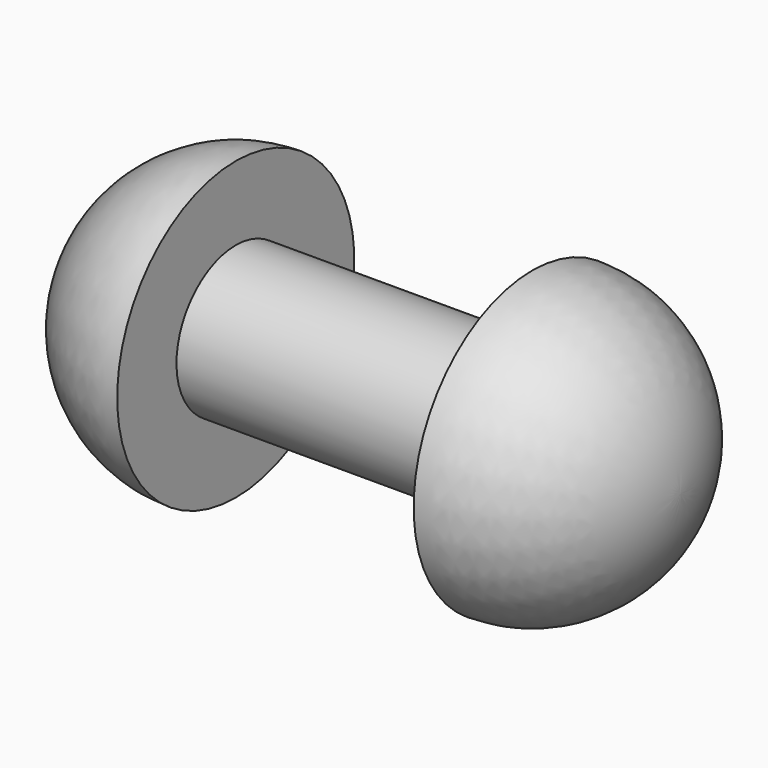
from build123d import *


with BuildPart() as f1:
    # F0 (on Front) → F1 (revolve)
    with BuildSketch(Plane.XZ):
        with BuildLine():
            Line((0, 1.5), (0, 3))
            ThreePointArc((0, 3), (-2.12132, 2.12132), (-3, 0))
            Line((-3, 0), (9, 0))
            ThreePointArc((9, 0), (8.12132, 2.12132), (6, 3))
            Line((6, 3), (6, 1.5))
            Line((6, 1.5), (0, 1.5))
        make_face()
    revolve(axis=Axis((-5.039876, 0, 0), (-1, 0, 0)))


solid = f1.part
